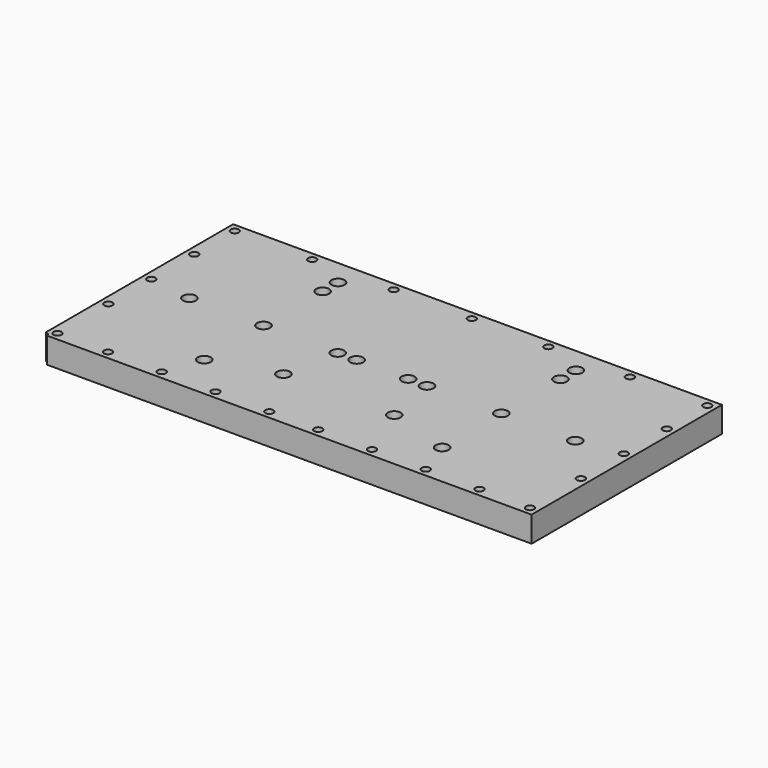
from build123d import *

# Parameters (mm, degrees)
F0_W      = 150
F0_H      = 73
F1_DEPTH  = 7.873
F2_W      = 136
F2_H      = 63
F3_DEPTH  = 4.873
F4_R      = 1.25
F5_DEPTH  = 7.873
F6_R      = 1.25
F7_DEPTH  = 7.873
F8_R      = 1.25
F9_DEPTH  = 7.873
F10_R     = 1.25
F11_DEPTH = 7.873
F12_R     = 1.25
F13_DEPTH = 7.873
F14_R     = 1.25
F15_DEPTH = 7.873
F16_R     = 1.25
F17_DEPTH = 7.873
F18_R     = 1.25
F19_DEPTH = 7.873
F20_R     = 1.25
F21_DEPTH = 7.873
F22_R     = 1.25
F23_DEPTH = 7.873
F24_R     = 1.25
F25_DEPTH = 7.873
F26_R     = 1.25
F27_DEPTH = 7.873
F28_R     = 1.25
F29_DEPTH = 7.873
F30_R     = 1.25
F31_DEPTH = 7.873
F32_R     = 1.25
F33_DEPTH = 7.873
F34_R     = 1.25
F35_DEPTH = 7.873
F36_R     = 1.25
F37_DEPTH = 7.873
F38_R     = 1.25
F39_DEPTH = 7.873
F40_R     = 1.25
F41_DEPTH = 7.873
F42_R     = 1.25
F43_DEPTH = 7.873
F44_R     = 1.25
F45_DEPTH = 7.873
F46_R     = 2
F47_DEPTH = 3
F48_R     = 2
F49_DEPTH = 3
F50_R     = 2
F51_DEPTH = 3
F52_R     = 2
F53_DEPTH = 3
F54_R     = 2
F55_DEPTH = 3
F56_R     = 2
F57_DEPTH = 3
F58_R     = 2
F59_DEPTH = 3
F60_R     = 2
F61_DEPTH = 3
F62_R     = 2
F63_DEPTH = 3
F64_R     = 2
F65_DEPTH = 3
F66_W     = 2.5
F66_H     = 4.873
F67_DEPTH = 63
F68_W     = 2.5
F68_H     = 6.5
F69_DEPTH = 0.623
F70_R     = 2
F71_DEPTH = 3
F73_R     = 2
F74_DEPTH = 3
F75_R     = 2
F76_DEPTH = 3
F77_R     = 2
F78_DEPTH = 3
F79_R     = 2
F80_DEPTH = 3
F72_R     = 2
F81_DEPTH = 3
F82_R     = 1.25
F83_DEPTH = 7.873
F84_R     = 1.25
F85_DEPTH = 7.873


with BuildPart() as f1:
    # F0 (on Top) → F1 (new body)
    with BuildSketch(Plane.XY):
        with Locations((75, 36.5)):
            Rectangle(F0_W, F0_H)
    extrude(amount=F1_DEPTH)

    # F2 (on Top) → F3 (cut)
    with BuildSketch(Plane.XY):
        with Locations((75, 36.5)):
            Rectangle(F2_W, F2_H)
    extrude(amount=F3_DEPTH, mode=Mode.SUBTRACT)

    # F4 (on face) → F5 (cut)
    with BuildSketch(Plane.XY.offset(7.873)):
        with Locations((2.5, 2.5)):
            Circle(F4_R)
    extrude(amount=-F5_DEPTH, mode=Mode.SUBTRACT)

    # F6 (on face) → F7 (cut)
    with BuildSketch(Plane.XY.offset(7.873)):
        with Locations((18, 2.5)):
            Circle(F6_R)
    extrude(amount=-F7_DEPTH, mode=Mode.SUBTRACT)

    # F8 (on face) → F9 (cut)
    with BuildSketch(Plane.XY.offset(7.873)):
        with Locations((34.5, 2.5)):
            Circle(F8_R)
    extrude(amount=-F9_DEPTH, mode=Mode.SUBTRACT)

    # F10 (on face) → F11 (cut)
    with BuildSketch(Plane.XY.offset(7.873)):
        with Locations((51, 2.5)):
            Circle(F10_R)
    extrude(amount=-F11_DEPTH, mode=Mode.SUBTRACT)

    # F12 (on face) → F13 (cut)
    with BuildSketch(Plane.XY.offset(7.873)):
        with Locations((67.5, 2.5)):
            Circle(F12_R)
    extrude(amount=-F13_DEPTH, mode=Mode.SUBTRACT)

    # F14 (on face) → F15 (cut)
    with BuildSketch(Plane.XY.offset(7.873)):
        with Locations((82.5, 2.5)):
            Circle(F14_R)
    extrude(amount=-F15_DEPTH, mode=Mode.SUBTRACT)

    # F16 (on face) → F17 (cut)
    with BuildSketch(Plane.XY.offset(7.873)):
        with Locations((99, 2.5)):
            Circle(F16_R)
    extrude(amount=-F17_DEPTH, mode=Mode.SUBTRACT)

    # F18 (on face) → F19 (cut)
    with BuildSketch(Plane.XY.offset(7.873)):
        with Locations((115.5, 2.5)):
            Circle(F18_R)
    extrude(amount=-F19_DEPTH, mode=Mode.SUBTRACT)

    # F20 (on face) → F21 (cut)
    with BuildSketch(Plane.XY.offset(7.873)):
        with Locations((132, 2.5)):
            Circle(F20_R)
    extrude(amount=-F21_DEPTH, mode=Mode.SUBTRACT)

    # F22 (on face) → F23 (cut)
    with BuildSketch(Plane.XY.offset(7.873)):
        with Locations((147.5, 2.5)):
            Circle(F22_R)
    extrude(amount=-F23_DEPTH, mode=Mode.SUBTRACT)

    # F24 (on face) → F25 (cut)
    with BuildSketch(Plane.XY.offset(7.873)):
        with Locations((2.5, 22)):
            Circle(F24_R)
    extrude(amount=-F25_DEPTH, mode=Mode.SUBTRACT)

    # F26 (on face) → F27 (cut)
    with BuildSketch(Plane.XY.offset(7.873)):
        with Locations((147.5, 22)):
            Circle(F26_R)
    extrude(amount=-F27_DEPTH, mode=Mode.SUBTRACT)

    # F28 (on face) → F29 (cut)
    with BuildSketch(Plane.XY.offset(7.873)):
        with Locations((147.5, 38.5)):
            Circle(F28_R)
    extrude(amount=-F29_DEPTH, mode=Mode.SUBTRACT)

    # F30 (on face) → F31 (cut)
    with BuildSketch(Plane.XY.offset(7.873)):
        with Locations((2.5, 38.5)):
            Circle(F30_R)
    extrude(amount=-F31_DEPTH, mode=Mode.SUBTRACT)

    # F32 (on face) → F33 (cut)
    with BuildSketch(Plane.XY.offset(7.873)):
        with Locations((2.5, 55)):
            Circle(F32_R)
    extrude(amount=-F33_DEPTH, mode=Mode.SUBTRACT)

    # F34 (on face) → F35 (cut)
    with BuildSketch(Plane.XY.offset(7.873)):
        with Locations((147.5, 55)):
            Circle(F34_R)
    extrude(amount=-F35_DEPTH, mode=Mode.SUBTRACT)

    # F36 (on face) → F37 (cut)
    with BuildSketch(Plane.XY.offset(7.873)):
        with Locations((2.5, 70.5)):
            Circle(F36_R)
    extrude(amount=-F37_DEPTH, mode=Mode.SUBTRACT)

    # F38 (on face) → F39 (cut)
    with BuildSketch(Plane.XY.offset(7.873)):
        with Locations((147.5, 70.5)):
            Circle(F38_R)
    extrude(amount=-F39_DEPTH, mode=Mode.SUBTRACT)

    # F40 (on face) → F41 (cut)
    with BuildSketch(Plane.XY.offset(7.873)):
        with Locations((26.25, 70.5)):
            Circle(F40_R)
        Circle(F40_R)
    extrude(amount=-F41_DEPTH, mode=Mode.SUBTRACT)

    # F42 (on face) → F43 (cut)
    with BuildSketch(Plane.XY.offset(7.873)):
        with Locations((123.75, 70.5)):
            Circle(F42_R)
    extrude(amount=-F43_DEPTH, mode=Mode.SUBTRACT)

    # F44 (on face) → F45 (cut)
    with BuildSketch(Plane.XY.offset(7.873)):
        with Locations((75.25, 70.5)):
            Circle(F44_R)
    extrude(amount=-F45_DEPTH, mode=Mode.SUBTRACT)

    # F46 (on face) → F47 (cut)
    with BuildSketch(Plane.XY.offset(7.873)):
        with Locations((38.5, 65.1)):
            Circle(F46_R)
    extrude(amount=-F47_DEPTH, mode=Mode.SUBTRACT)

    # F48 (on face) → F49 (cut)
    with BuildSketch(Plane.XY.offset(7.873)):
        with Locations((38.5, 59.2)):
            Circle(F48_R)
    extrude(amount=-F49_DEPTH, mode=Mode.SUBTRACT)

    # F50 (on face) → F51 (cut)
    with BuildSketch(Plane.XY.offset(7.873)):
        with Locations((15.8, 36.5)):
            Circle(F50_R)
    extrude(amount=-F51_DEPTH, mode=Mode.SUBTRACT)

    # F52 (on face) → F53 (cut)
    with BuildSketch(Plane.XY.offset(7.873)):
        with Locations((67.1, 36.5)):
            Circle(F52_R)
    extrude(amount=-F53_DEPTH, mode=Mode.SUBTRACT)

    # F54 (on face) → F55 (cut)
    with BuildSketch(Plane.XY.offset(7.873)):
        with Locations((111.5, 65.1)):
            Circle(F54_R)
    extrude(amount=-F55_DEPTH, mode=Mode.SUBTRACT)

    # F56 (on face) → F57 (cut)
    with BuildSketch(Plane.XY.offset(7.873)):
        with Locations((111.5, 59.2)):
            Circle(F56_R)
    extrude(amount=-F57_DEPTH, mode=Mode.SUBTRACT)

    # F58 (on face) → F59 (cut)
    with BuildSketch(Plane.XY.offset(7.873)):
        with Locations((82.9, 36.5)):
            Circle(F58_R)
    extrude(amount=-F59_DEPTH, mode=Mode.SUBTRACT)

    # F60 (on face) → F61 (cut)
    with BuildSketch(Plane.XY.offset(7.873)):
        with Locations((134.2, 36.5)):
            Circle(F60_R)
    extrude(amount=-F61_DEPTH, mode=Mode.SUBTRACT)

    # F62 (on face) → F63 (cut)
    with BuildSketch(Plane.XY.offset(7.873)):
        with Locations((58, 19.8)):
            Circle(F62_R)
    extrude(amount=-F63_DEPTH, mode=Mode.SUBTRACT)

    # F64 (on face) → F65 (cut)
    with BuildSketch(Plane.XY.offset(7.873)):
        with Locations((92, 19.8)):
            Circle(F64_R)
    extrude(amount=-F65_DEPTH, mode=Mode.SUBTRACT)

    # F66 (on face) → F67 (join)
    with BuildSketch(Plane(origin=(0, 5, 0), x_dir=(-1, 0, 0), z_dir=(0, 1, 0))):
        with Locations((-75, 2.4365)):
            Rectangle(F66_W, F66_H)
    extrude(amount=F67_DEPTH)

    # F68 (on face) → F69 (cut)
    with BuildSketch(Plane(origin=(0, 0, 0), x_dir=(1, 0, 0), z_dir=(0, 0, -1))):
        with Locations((75, -36.5)):
            Rectangle(F68_W, F68_H)
    extrude(amount=-F69_DEPTH, mode=Mode.SUBTRACT)

    # F70 (on face) → F71 (cut)
    with BuildSketch(Plane(origin=(0, 0, 4.873), x_dir=(1, 0, 0), z_dir=(0, 0, -1))):
        with Locations((38.5, -13.8)):
            Circle(F70_R)
    extrude(amount=-F71_DEPTH, mode=Mode.SUBTRACT)

    # F73 (on face) → F74 (cut)
    with BuildSketch(Plane(origin=(0, 0, 4.873), x_dir=(1, 0, 0), z_dir=(0, 0, -1))):
        with Locations((111.5, -36.5)):
            Circle(F73_R)
    extrude(amount=-F74_DEPTH, mode=Mode.SUBTRACT)

    # F75 (on face) → F76 (cut)
    with BuildSketch(Plane(origin=(0, 0, 4.873), x_dir=(1, 0, 0), z_dir=(0, 0, -1))):
        with Locations((111.5, -13.8)):
            Circle(F75_R)
    extrude(amount=-F76_DEPTH, mode=Mode.SUBTRACT)

    # F77 (on face) → F78 (cut)
    with BuildSketch(Plane(origin=(0, 0, 4.873), x_dir=(1, 0, 0), z_dir=(0, 0, -1))):
        with Locations((61.3, -36.5)):
            Circle(F77_R)
    extrude(amount=-F78_DEPTH, mode=Mode.SUBTRACT)

    # F79 (on face) → F80 (cut)
    with BuildSketch(Plane(origin=(0, 0, 4.873), x_dir=(1, 0, 0), z_dir=(0, 0, -1))):
        with Locations((88.7, -36.5)):
            Circle(F79_R)
    extrude(amount=-F80_DEPTH, mode=Mode.SUBTRACT)

    # F72 (on face) → F81 (cut)
    with BuildSketch(Plane(origin=(0, 0, 4.873), x_dir=(1, 0, 0), z_dir=(0, 0, -1))):
        with Locations((38.5, -36.5)):
            Circle(F72_R)
    extrude(amount=-F81_DEPTH, mode=Mode.SUBTRACT)

    # F82 (on face) → F83 (cut)
    with BuildSketch(Plane(origin=(0, 0, 0), x_dir=(1, 0, 0), z_dir=(0, 0, -1))):
        with Locations((51.25, -70.5)):
            Circle(F82_R)
    extrude(amount=-F83_DEPTH, mode=Mode.SUBTRACT)

    # F84 (on face) → F85 (cut)
    with BuildSketch(Plane(origin=(0, 0, 0), x_dir=(1, 0, 0), z_dir=(0, 0, -1))):
        with Locations((98.75, -70.5)):
            Circle(F84_R)
    extrude(amount=-F85_DEPTH, mode=Mode.SUBTRACT)


solid = f1.part
